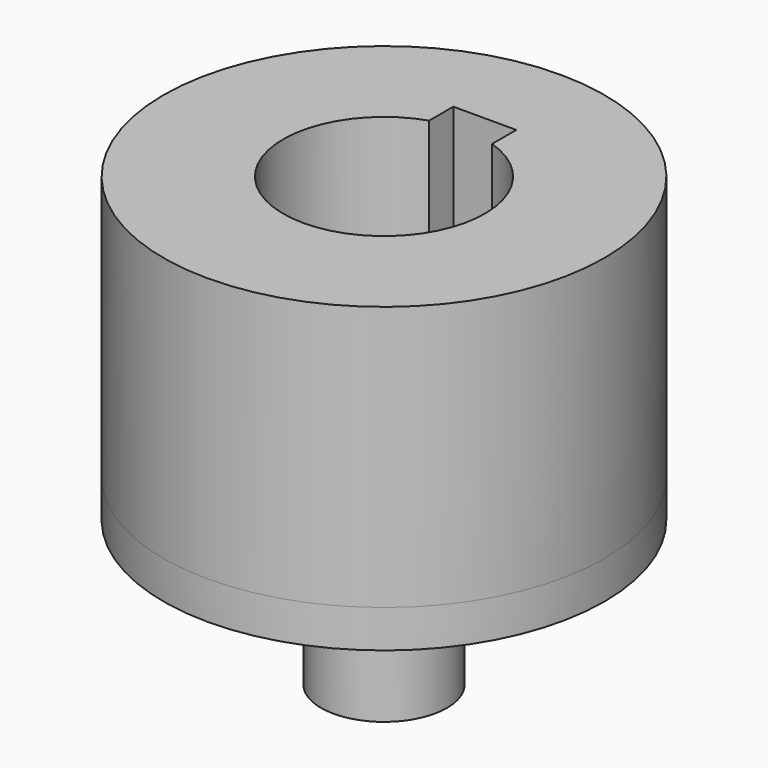
from build123d import *

# Parameters (mm, degrees)
F0_R     = 17.5
F1_DEPTH = 10.5
F2_R     = 17.5
F3_DEPTH = 3
F4_R     = 5
F5_DEPTH = 11.5
F7_D     = 5.5
F7_DEPTH = 30
F7_TIP   = 1.6523667023


with BuildPart() as f1:
    # F0 (on Top) → F1 (new body, symmetric)
    with BuildSketch(Plane.XY):
        Circle(F0_R)
        with BuildLine():
            ThreePointArc((2.5, 7.5993420768), (0, -8), (-2.5, 7.5993420768))
            Line((-2.5, 7.5993420768), (-2.5, 10))
            Line((-2.5, 10), (2.5, 10))
            Line((2.5, 10), (2.5, 7.5993420768))
        make_face(mode=Mode.SUBTRACT)
    extrude(amount=F1_DEPTH, both=True)

    # F2 (on face) → F3 (join)
    with BuildSketch(Plane(origin=(0, 0, -10.5), x_dir=(1, 0, 0), z_dir=(0, 0, -1))):
        Circle(F2_R)
        with BuildLine():
            Line((-2.5, -10), (-2.5, -7.5993420768))
            ThreePointArc((-2.5, -7.5993420768), (0, 8), (2.5, -7.5993420768))
            Line((2.5, -7.5993420768), (2.5, -10))
            Line((2.5, -10), (-2.5, -10))
        make_face(mode=Mode.SUBTRACT)
        with BuildLine():
            ThreePointArc((2.5, -7.5993420768), (0, 8), (-2.5, -7.5993420768))
            Line((-2.5, -7.5993420768), (-2.5, -10))
            Line((-2.5, -10), (2.5, -10))
            Line((2.5, -10), (2.5, -7.5993420768))
        make_face()
    extrude(amount=F3_DEPTH)

    # F4 (on face) → F5 (join)
    with BuildSketch(Plane(origin=(0, 0, -13.5), x_dir=(1, 0, 0), z_dir=(0, 0, -1))):
        Circle(F4_R)
    extrude(amount=F5_DEPTH)

    # F7
    with Locations(Plane(origin=(0, 0, -25), x_dir=(1, 0, 0), z_dir=(0, 0, -1))):
        with Locations((0, 0)):
            Hole(F7_D / 2, depth=F7_DEPTH)
            with Locations((0, 0, -(F7_DEPTH + F7_TIP / 2))):  # 118° drill point
                Cone(0, F7_D / 2, F7_TIP, mode=Mode.SUBTRACT)


solid = f1.part
